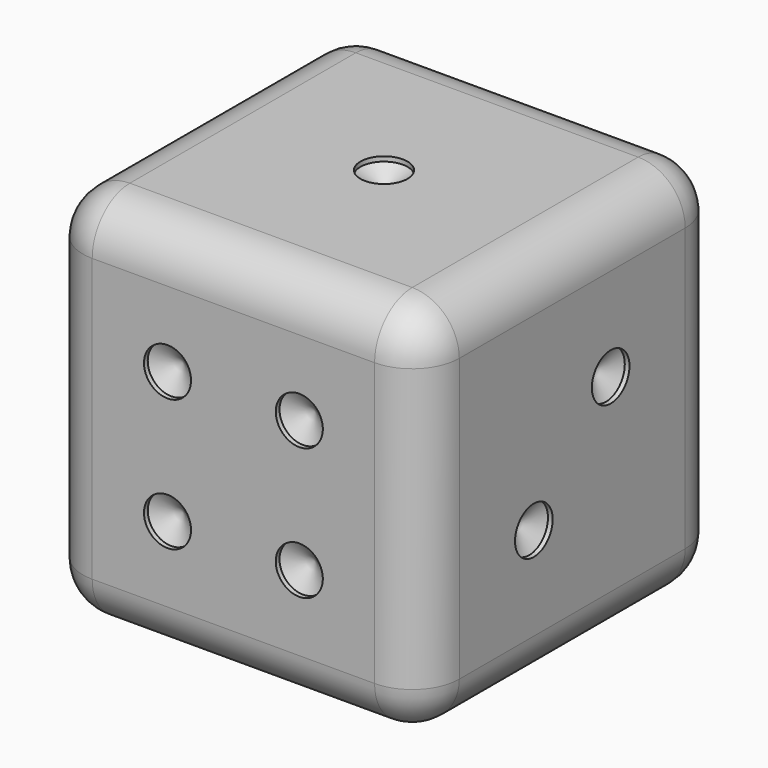
from build123d import *

# Parameters (mm, degrees)
F0_W      = 40
F0_H      = 40
F1_DEPTH  = 40
F2_R      = 5
F4_D      = 5
F4_DEPTH  = 0.5
F4_TIP    = 1.5021515476
F6_D      = 5
F6_DEPTH  = 0.5
F6_TIP    = 1.5021515476
F8_D      = 5
F8_DEPTH  = 0.5
F8_TIP    = 1.5021515476
F10_D     = 5
F10_DEPTH = 0.5
F10_TIP   = 1.5021515476
F12_D     = 5
F12_DEPTH = 0.5
F12_TIP   = 1.5021515476
F14_D     = 5
F14_DEPTH = 0.5
F14_TIP   = 1.5021515476


with BuildPart() as f1:
    # F0 (on Top) → F1 (new body)
    with BuildSketch(Plane.XY):
        with Locations((20, 17.7310523391)):
            Rectangle(F0_W, F0_H)
    extrude(amount=F1_DEPTH)

    # F2
    f2_edges = [f1.edges().sort_by_distance(p)[0] for p in [
        (0, 17.731052, 40),
        (20, -2.268948, 40),
        (40, 17.731052, 40),
        (20, 37.731052, 40),
        (0, -2.268948, 20),
        (40, -2.268948, 20),
        (0, 37.731052, 20),
        (20, -2.268948, 0),
        (0, 17.731052, 0),
        (40, 17.731052, 0),
        (20, 37.731052, 0),
        (40, 37.731052, 20),
    ]]
    fillet(f2_edges, radius=F2_R)

    # F4
    with Locations(Plane.XY.offset(40)):
        with Locations((20, 17.7310523391)):
            Hole(F4_D / 2, depth=F4_DEPTH)
            with Locations((0, 0, -(F4_DEPTH + F4_TIP / 2))):  # 118° drill point
                Cone(0, F4_D / 2, F4_TIP, mode=Mode.SUBTRACT)

    # F6
    with Locations(Plane(origin=(0, 0, 0), x_dir=(1, 0, 0), z_dir=(0, 0, -1))):
        with Locations((30, -27.7310523391), (20, -27.7310523391), (10, -27.7310523391), (10, -7.7310523391), (20, -7.7310523391), (30, -7.7310523391)):
            Hole(F6_D / 2, depth=F6_DEPTH)
            with Locations((0, 0, -(F6_DEPTH + F6_TIP / 2))):  # 118° drill point
                Cone(0, F6_D / 2, F6_TIP, mode=Mode.SUBTRACT)

    # F8
    with Locations(Plane(origin=(0, 37.7310523391, 0), x_dir=(-1, 0, 0), z_dir=(0, 1, 0))):
        with Locations((-11.0000551109, 11.0000551109), (-20, 20), (-28.9999448891, 28.9999448891)):
            Hole(F8_D / 2, depth=F8_DEPTH)
            with Locations((0, 0, -(F8_DEPTH + F8_TIP / 2))):  # 118° drill point
                Cone(0, F8_D / 2, F8_TIP, mode=Mode.SUBTRACT)

    # F10
    with Locations(Plane.XZ.offset(2.2689476609)):
        with Locations((13, 27), (27, 27), (27, 13), (13, 13)):
            Hole(F10_D / 2, depth=F10_DEPTH)
            with Locations((0, 0, -(F10_DEPTH + F10_TIP / 2))):  # 118° drill point
                Cone(0, F10_D / 2, F10_TIP, mode=Mode.SUBTRACT)

    # F12
    with Locations(Plane(origin=(0, 0, 0), x_dir=(0, -1, 0), z_dir=(-1, 0, 0))):
        with Locations((-24.7310523391, 27), (-10.7310523391, 27), (-10.7310523391, 13), (-24.7310523391, 13), (-17.7310523391, 20)):
            Hole(F12_D / 2, depth=F12_DEPTH)
            with Locations((0, 0, -(F12_DEPTH + F12_TIP / 2))):  # 118° drill point
                Cone(0, F12_D / 2, F12_TIP, mode=Mode.SUBTRACT)

    # F14
    with Locations(Plane.YZ.offset(40)):
        with Locations((22.8315574025, 25.1005050634), (12.6305472757, 14.8994949366)):
            Hole(F14_D / 2, depth=F14_DEPTH)
            with Locations((0, 0, -(F14_DEPTH + F14_TIP / 2))):  # 118° drill point
                Cone(0, F14_D / 2, F14_TIP, mode=Mode.SUBTRACT)


solid = f1.part
